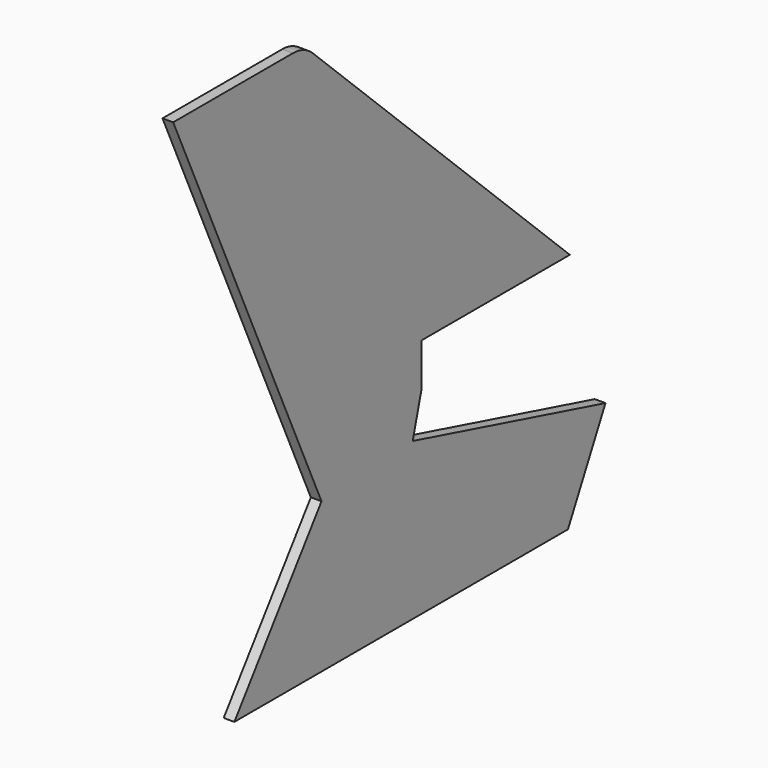
from build123d import *

# Parameters (mm, degrees)
F1_DEPTH = 1.5


with BuildPart() as f1:
    # F0 (on Right) → F1 (new body)
    with BuildSketch(Plane.YZ):
        with BuildLine():
            Line((-26.009913, 57.380174), (0, 0))
            Line((0, 0), (-15.282417, -21.034442))
            Line((-15.282417, -21.034442), (43.217583, -21.034442))
            Line((43.217583, -21.034442), (49.800446, -8.114847))
            Line((49.800446, -8.114847), (15.993042, 0.943819))
            Line((15.993042, 0.943819), (17.545956, 6.739374))
            Line((17.545956, 6.739374), (17.545956, 12.739374))
            Line((17.545956, 12.739374), (43.545956, 12.739374))
            Line((43.545956, 12.739374), (-1.559221, 55.989156))
            ThreePointArc((-1.559221, 55.989156), (-3.154931, 57.019404), (-5.019749, 57.380174))
            Line((-5.019749, 57.380174), (-26.009913, 57.380174))
        make_face()
    extrude(amount=F1_DEPTH)


solid = f1.part
